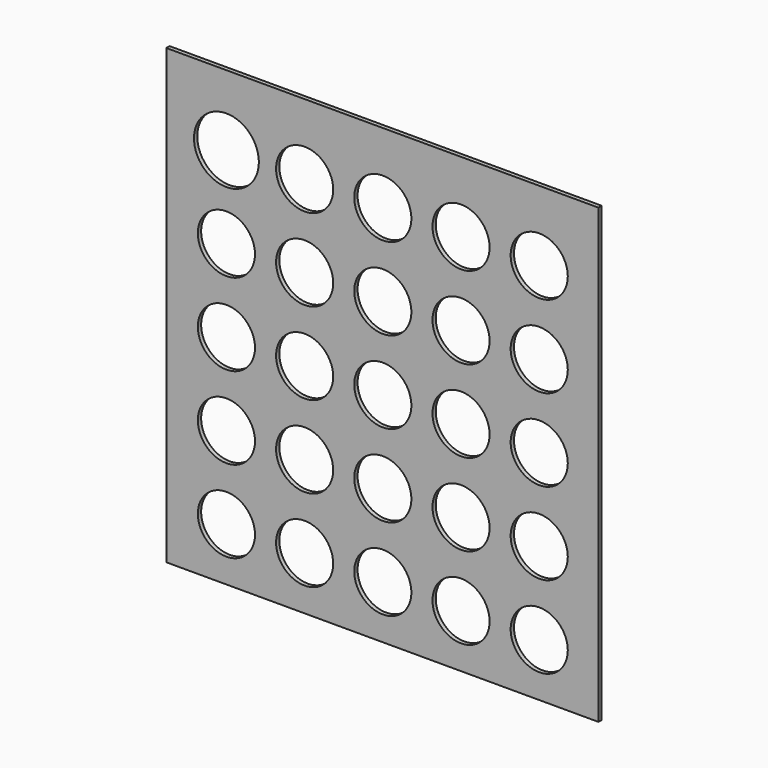
from build123d import *

# Parameters (mm, degrees)
F0_W     = 266.7
F0_H     = 279.4
F0_R     = 17.624016
F0_R_2   = 20.01992
F1_DEPTH = 2.54
F2_DEPTH = 1.27
F3_DEPTH = 0.254


with BuildPart() as f1:
    # F0 (on Front) → F1 (new body)
    with BuildSketch(Plane.XZ):
        with Locations((27.403467, 28.282007)):
            Rectangle(F0_W, F0_H)
        with Locations((-68.827078, -78.692752)):
            Circle(F0_R, mode=Mode.SUBTRACT)
        with Locations((-20.567078, -78.692752)):
            Circle(F0_R, mode=Mode.SUBTRACT)
        with Locations((-68.827078, -27.892752)):
            Circle(F0_R, mode=Mode.SUBTRACT)
        with Locations((-68.827078, 22.907248)):
            Circle(F0_R, mode=Mode.SUBTRACT)
        with Locations((-20.567078, -27.892752)):
            Circle(F0_R, mode=Mode.SUBTRACT)
        with Locations((-20.567078, 22.907248)):
            Circle(F0_R, mode=Mode.SUBTRACT)
        with Locations((27.692922, -78.692752)):
            Circle(F0_R, mode=Mode.SUBTRACT)
        with Locations((75.952922, -78.692752)):
            Circle(F0_R, mode=Mode.SUBTRACT)
        with Locations((124.212922, -78.692752)):
            Circle(F0_R, mode=Mode.SUBTRACT)
        with Locations((27.692922, -27.892752)):
            Circle(F0_R, mode=Mode.SUBTRACT)
        with Locations((75.952922, -27.892752)):
            Circle(F0_R, mode=Mode.SUBTRACT)
        with Locations((27.692922, 22.907248)):
            Circle(F0_R, mode=Mode.SUBTRACT)
        with Locations((75.952922, 22.907248)):
            Circle(F0_R, mode=Mode.SUBTRACT)
        with Locations((124.212922, -27.892752)):
            Circle(F0_R, mode=Mode.SUBTRACT)
        with Locations((124.212922, 22.907248)):
            Circle(F0_R, mode=Mode.SUBTRACT)
        with Locations((-68.827078, 73.707248)):
            Circle(F0_R, mode=Mode.SUBTRACT)
        with Locations((-20.567078, 73.707248)):
            Circle(F0_R, mode=Mode.SUBTRACT)
        with Locations((-68.827078, 124.507248)):
            Circle(F0_R_2, mode=Mode.SUBTRACT)
        with Locations((-20.567078, 124.507248)):
            Circle(F0_R, mode=Mode.SUBTRACT)
        with Locations((27.692922, 73.707248)):
            Circle(F0_R, mode=Mode.SUBTRACT)
        with Locations((75.952922, 73.707248)):
            Circle(F0_R, mode=Mode.SUBTRACT)
        with Locations((124.212922, 73.707248)):
            Circle(F0_R, mode=Mode.SUBTRACT)
        with Locations((27.692922, 124.507248)):
            Circle(F0_R, mode=Mode.SUBTRACT)
        with Locations((75.952922, 124.507248)):
            Circle(F0_R, mode=Mode.SUBTRACT)
        with Locations((124.212922, 124.507248)):
            Circle(F0_R, mode=Mode.SUBTRACT)
    extrude(amount=F1_DEPTH)

    # F0 (on Front) → F2 (join)
    with BuildSketch(Plane.XZ):
        with Locations((27.403467, 28.282007)):
            Rectangle(F0_W, F0_H)
        with Locations((-68.827078, -78.692752)):
            Circle(F0_R, mode=Mode.SUBTRACT)
        with Locations((-20.567078, -78.692752)):
            Circle(F0_R, mode=Mode.SUBTRACT)
        with Locations((-68.827078, -27.892752)):
            Circle(F0_R, mode=Mode.SUBTRACT)
        with Locations((-68.827078, 22.907248)):
            Circle(F0_R, mode=Mode.SUBTRACT)
        with Locations((-20.567078, -27.892752)):
            Circle(F0_R, mode=Mode.SUBTRACT)
        with Locations((-20.567078, 22.907248)):
            Circle(F0_R, mode=Mode.SUBTRACT)
        with Locations((27.692922, -78.692752)):
            Circle(F0_R, mode=Mode.SUBTRACT)
        with Locations((75.952922, -78.692752)):
            Circle(F0_R, mode=Mode.SUBTRACT)
        with Locations((124.212922, -78.692752)):
            Circle(F0_R, mode=Mode.SUBTRACT)
        with Locations((27.692922, -27.892752)):
            Circle(F0_R, mode=Mode.SUBTRACT)
        with Locations((75.952922, -27.892752)):
            Circle(F0_R, mode=Mode.SUBTRACT)
        with Locations((27.692922, 22.907248)):
            Circle(F0_R, mode=Mode.SUBTRACT)
        with Locations((75.952922, 22.907248)):
            Circle(F0_R, mode=Mode.SUBTRACT)
        with Locations((124.212922, -27.892752)):
            Circle(F0_R, mode=Mode.SUBTRACT)
        with Locations((124.212922, 22.907248)):
            Circle(F0_R, mode=Mode.SUBTRACT)
        with Locations((-68.827078, 73.707248)):
            Circle(F0_R, mode=Mode.SUBTRACT)
        with Locations((-20.567078, 73.707248)):
            Circle(F0_R, mode=Mode.SUBTRACT)
        with Locations((-68.827078, 124.507248)):
            Circle(F0_R_2, mode=Mode.SUBTRACT)
        with Locations((-20.567078, 124.507248)):
            Circle(F0_R, mode=Mode.SUBTRACT)
        with Locations((27.692922, 73.707248)):
            Circle(F0_R, mode=Mode.SUBTRACT)
        with Locations((75.952922, 73.707248)):
            Circle(F0_R, mode=Mode.SUBTRACT)
        with Locations((124.212922, 73.707248)):
            Circle(F0_R, mode=Mode.SUBTRACT)
        with Locations((27.692922, 124.507248)):
            Circle(F0_R, mode=Mode.SUBTRACT)
        with Locations((75.952922, 124.507248)):
            Circle(F0_R, mode=Mode.SUBTRACT)
        with Locations((124.212922, 124.507248)):
            Circle(F0_R, mode=Mode.SUBTRACT)
    extrude(amount=F2_DEPTH)


with BuildPart() as f3:
    # F0 (on Front) → F3 (new body)
    with BuildSketch(Plane.XZ):
        with Locations((27.403467, 28.282007)):
            Rectangle(F0_W, F0_H)
        with Locations((-68.827078, -78.692752)):
            Circle(F0_R, mode=Mode.SUBTRACT)
        with Locations((-20.567078, -78.692752)):
            Circle(F0_R, mode=Mode.SUBTRACT)
        with Locations((-68.827078, -27.892752)):
            Circle(F0_R, mode=Mode.SUBTRACT)
        with Locations((-68.827078, 22.907248)):
            Circle(F0_R, mode=Mode.SUBTRACT)
        with Locations((-20.567078, -27.892752)):
            Circle(F0_R, mode=Mode.SUBTRACT)
        with Locations((-20.567078, 22.907248)):
            Circle(F0_R, mode=Mode.SUBTRACT)
        with Locations((27.692922, -78.692752)):
            Circle(F0_R, mode=Mode.SUBTRACT)
        with Locations((75.952922, -78.692752)):
            Circle(F0_R, mode=Mode.SUBTRACT)
        with Locations((124.212922, -78.692752)):
            Circle(F0_R, mode=Mode.SUBTRACT)
        with Locations((27.692922, -27.892752)):
            Circle(F0_R, mode=Mode.SUBTRACT)
        with Locations((75.952922, -27.892752)):
            Circle(F0_R, mode=Mode.SUBTRACT)
        with Locations((27.692922, 22.907248)):
            Circle(F0_R, mode=Mode.SUBTRACT)
        with Locations((75.952922, 22.907248)):
            Circle(F0_R, mode=Mode.SUBTRACT)
        with Locations((124.212922, -27.892752)):
            Circle(F0_R, mode=Mode.SUBTRACT)
        with Locations((124.212922, 22.907248)):
            Circle(F0_R, mode=Mode.SUBTRACT)
        with Locations((-68.827078, 73.707248)):
            Circle(F0_R, mode=Mode.SUBTRACT)
        with Locations((-20.567078, 73.707248)):
            Circle(F0_R, mode=Mode.SUBTRACT)
        with Locations((-68.827078, 124.507248)):
            Circle(F0_R_2, mode=Mode.SUBTRACT)
        with Locations((-20.567078, 124.507248)):
            Circle(F0_R, mode=Mode.SUBTRACT)
        with Locations((27.692922, 73.707248)):
            Circle(F0_R, mode=Mode.SUBTRACT)
        with Locations((75.952922, 73.707248)):
            Circle(F0_R, mode=Mode.SUBTRACT)
        with Locations((124.212922, 73.707248)):
            Circle(F0_R, mode=Mode.SUBTRACT)
        with Locations((27.692922, 124.507248)):
            Circle(F0_R, mode=Mode.SUBTRACT)
        with Locations((75.952922, 124.507248)):
            Circle(F0_R, mode=Mode.SUBTRACT)
        with Locations((124.212922, 124.507248)):
            Circle(F0_R, mode=Mode.SUBTRACT)
    extrude(amount=F3_DEPTH)


solid = Compound([f1.part, f3.part])
